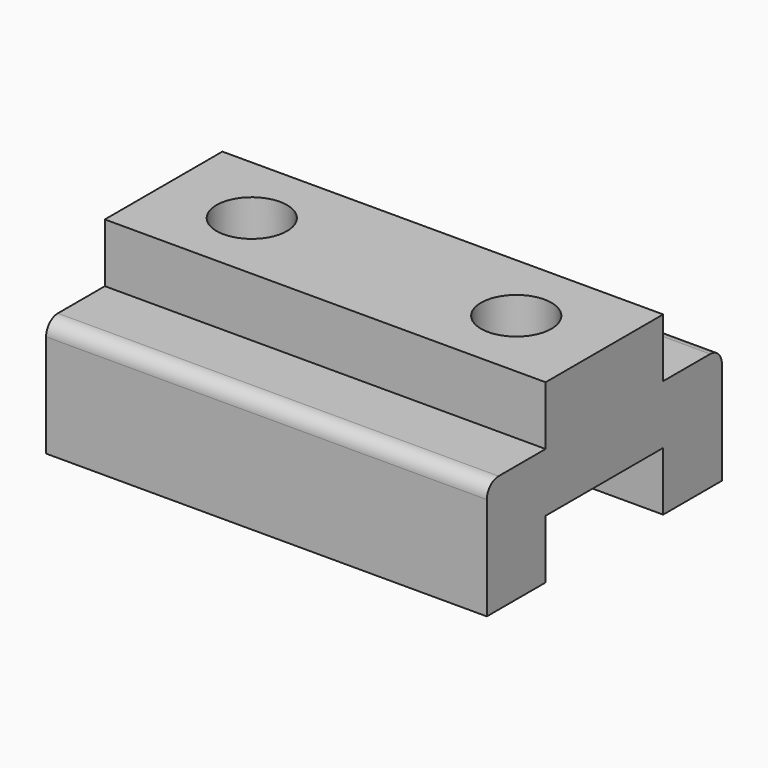
from build123d import *

# Parameters (mm, degrees)
F1_DEPTH = 1500
F2_R     = 120
F3_DEPTH = 715
F4_R     = 50


with BuildPart() as f1:
    # F0 (on Right) → F1 (new body)
    with BuildSketch(Plane.YZ):
        Polygon((250, 724.072175), (0, 724.072175), (-250, 724.072175), (-250, 524.072175), (-500, 524.072175), (-500, 124.072175), (-250, 124.072175), (-250, 324.072175), (0, 324.072175), (250, 324.072175), (250, 124.072175), (500, 124.072175), (500, 524.072175), (250, 524.072175), align=None)
    extrude(amount=F1_DEPTH)

    # F2 (on face) → F3 (cut)
    with BuildSketch(Plane.XY.offset(724.072175)):
        with Locations((300, 0)):
            Circle(F2_R)
        with Locations((1200, 0)):
            Circle(F2_R)
    extrude(amount=-F3_DEPTH, mode=Mode.SUBTRACT)

    # F4
    f4_edges = [f1.edges().sort_by_distance(p)[0] for p in [
        (750, -500, 524.072175),
        (750, 500, 524.072175),
    ]]
    fillet(f4_edges, radius=F4_R)


solid = f1.part
